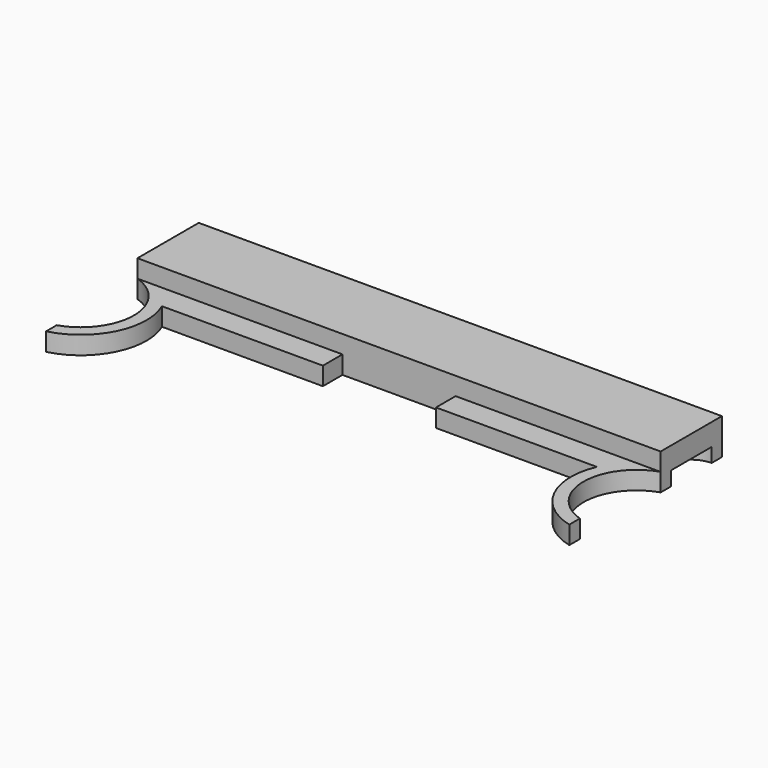
from build123d import *

# Parameters (mm, degrees)
F1_DEPTH = 6.477
F2_DEPTH = 3.2512
F4_DEPTH = 2.54


with BuildPart() as f1:
    # F0 (on Top) → F1 (new body)
    with BuildSketch(Plane.XY):
        Polygon((46.99, 18.161), (-46.99, 18.161), (-46.99, 4.401166), (-10.16, 4.401166), (10.16, 4.401166), (46.99, 4.401166), align=None)
    extrude(amount=F1_DEPTH)

    # F0 (on Top) → F2 (join)
    with BuildSketch(Plane.XY):
        with BuildLine():
            Line((-10.16, 4.401166), (-46.99, 4.401166))
            ThreePointArc((-46.99, 4.401166), (-40.386, -4.664891), (-46.99, -13.730948))
            Line((-46.99, -13.730948), (-46.99, -16.108993))
            ThreePointArc((-46.99, -16.108993), (-39.314297, -9.881174), (-39.060262, 0))
            Line((-39.060262, 0), (-10.16, 0))
            Line((-10.16, 0), (-10.16, 4.401166))
        make_face()
        with BuildLine():
            ThreePointArc((46.99, -13.730948), (40.386, -4.664891), (46.99, 4.401166))
            Line((46.99, 4.401166), (10.16, 4.401166))
            Line((10.16, 4.401166), (10.16, 0))
            Line((10.16, 0), (39.060262, 0))
            ThreePointArc((39.060262, 0), (39.314297, -9.881174), (46.99, -16.108993))
            Line((46.99, -16.108993), (46.99, -13.730948))
        make_face()
    extrude(amount=F2_DEPTH)

    # F3 (on face) → F4 (cut)
    with BuildSketch(Plane.XY):
        with BuildLine():
            Line((-46.99, 15.853083), (-46.99, 6.709083))
            ThreePointArc((-46.99, 6.709083), (-42.418, 11.281083), (-46.99, 15.853083))
        make_face()
        with BuildLine():
            ThreePointArc((46.99, 15.853083), (42.418, 11.281083), (46.99, 6.709083))
            Line((46.99, 6.709083), (46.99, 15.853083))
        make_face()
    extrude(amount=F4_DEPTH, mode=Mode.SUBTRACT)


solid = f1.part
